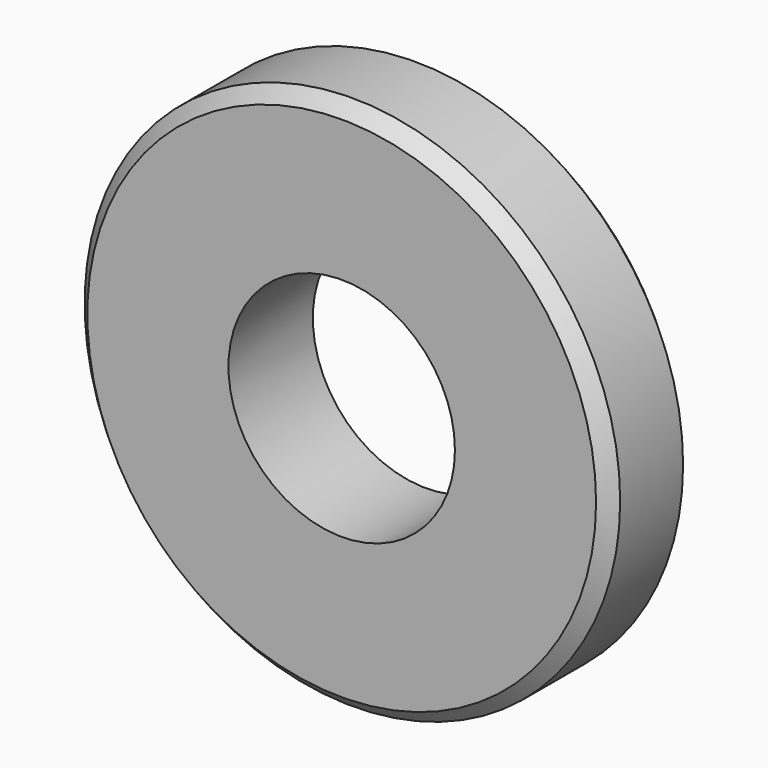
from build123d import *

# Parameters (mm, degrees)
F0_R     = 50.8
F1_DEPTH = 20
F3_SIZE  = 2.54
F2_R     = 21.480833
F4_DEPTH = 20


with BuildPart() as f1:
    # F0 (on Front) → F1 (new body)
    with BuildSketch(Plane.XZ):
        Circle(F0_R)
    extrude(amount=F1_DEPTH)

    # F3
    f3_edges = [f1.edges().sort_by_distance(p)[0] for p in [
        (-50.8, -20, 0),
        (-50.8, 0, 0),
    ]]
    chamfer(f3_edges, length=F3_SIZE)

    # F2 (on face) → F4 (cut, through all)
    with BuildSketch(Plane.XZ.offset(20)):
        Circle(F2_R)
    extrude(amount=-F4_DEPTH, mode=Mode.SUBTRACT)


solid = f1.part
